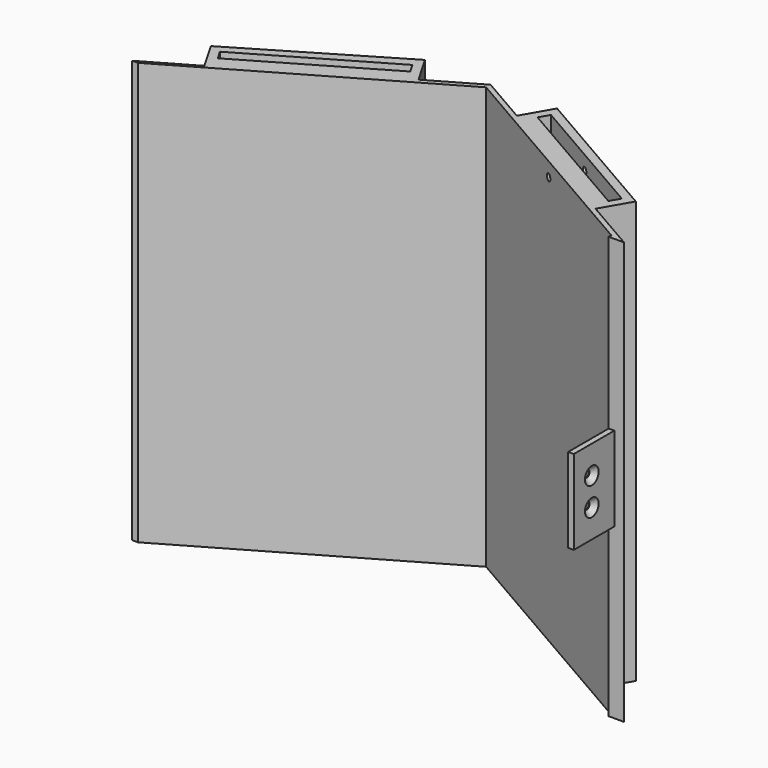
from build123d import *

# Parameters (mm, degrees)
PAD_DEPTH        = 150
SKETCH001_W      = 46.435574
SKETCH001_H      = 60
POCKET_DEPTH     = 5
HOLE_D           = 2.5
HOLE_DEPTH       = 25
HOLE_CSINK_D     = 6.1
HOLE_CSINK_ANGLE = 90
HOLE_TIPS_R      = 1.25
SKETCH011_R      = 1.25
HOLE001_DEPTH    = 25
HOLE001_TIPS_R   = 1.25


with BuildPart() as part:
    # Sketch → Pad (new body)
    with BuildSketch(Plane.XY):
        Polygon((82.66, 1.154701), (0, 48.878474), (-84.66, 0), (-86.66, 0), (-69.125816, 10.123366), (-75.125816, 20.515671), (-23.534184, 51.147413), (-17.534184, 40.755108), (0, 50.878474), (17.320508, 40.878474), (23.320508, 51.270779), (75.282032, 21.270779), (69.282032, 10.878474), (88.124102, 0), (84.66, 0), (84.66, -18), (82.66, -18), align=None)
        Polygon((-71.046234, 19.449182), (-69.046234, 15.98508), (-22.381715, 43.151724), (-24.381715, 46.615825), align=None, mode=Mode.SUBTRACT)
        Polygon((69.183956, 16.708601), (71.183956, 20.172702), (24.418584, 47.172702), (22.418584, 43.708601), align=None, mode=Mode.SUBTRACT)
    extrude(amount=PAD_DEPTH)

    # Sketch001 (on Face1 of Pad) → Pocket (cut)
    with BuildSketch(Plane.YZ.offset(84.66)):
        with Locations((-23.217787, 30)):
            Rectangle(SKETCH001_W, SKETCH001_H)
        with Locations((-23.217787, 120)):
            Rectangle(SKETCH001_W, SKETCH001_H)
    extrude(amount=-POCKET_DEPTH, mode=Mode.SUBTRACT)

    # Hole
    with Locations(Plane.YZ.offset(84.66)):
        with Locations((-10, 80), (-10, 70)):
            CounterSinkHole(HOLE_D / 2, HOLE_CSINK_D / 2, depth=HOLE_DEPTH, counter_sink_angle=HOLE_CSINK_ANGLE)

    # Hole tips → Hole tip 1 section 0
    with BuildSketch(Plane.YZ.offset(59.66), mode=Mode.PRIVATE) as hole_tip_1_s0:
        with Locations((-10, 80)):
            Circle(HOLE_TIPS_R)
    loft([hole_tip_1_s0.sketch, Vertex(58.908924, -10, 80)], mode=Mode.SUBTRACT)

    # Hole tips → Hole tip 2 section 0
    with BuildSketch(Plane.YZ.offset(59.66), mode=Mode.PRIVATE) as hole_tip_2_s0:
        with Locations((-10, 70)):
            Circle(HOLE_TIPS_R)
    loft([hole_tip_2_s0.sketch, Vertex(58.908924, -10, 70)], mode=Mode.SUBTRACT)

    # Sketch011 (on Face14 of Hole) → Hole001 (cut)
    with BuildSketch(Plane(origin=(21.165, 36.658855, 0), x_dir=(0.866025, -0.5, 0), z_dir=(-0.5, -0.866025, 0))):
        with Locations((23.284536, 145)):
            Circle(SKETCH011_R)
    extrude(amount=-HOLE001_DEPTH, mode=Mode.SUBTRACT)

    # Hole001 tips → Hole001 tip 1 section 0
    with BuildSketch(Plane(origin=(33.665, 58.30949, 0), x_dir=(0.866025, -0.5, 0), z_dir=(-0.5, -0.866025, 0)), mode=Mode.PRIVATE) as hole001_tip_1_s0:
        with Locations((23.284536, 145)):
            Circle(HOLE001_TIPS_R)
    loft([hole001_tip_1_s0.sketch, Vertex(54.205538, 47.317673, 145)], mode=Mode.SUBTRACT)


solid = part.part
